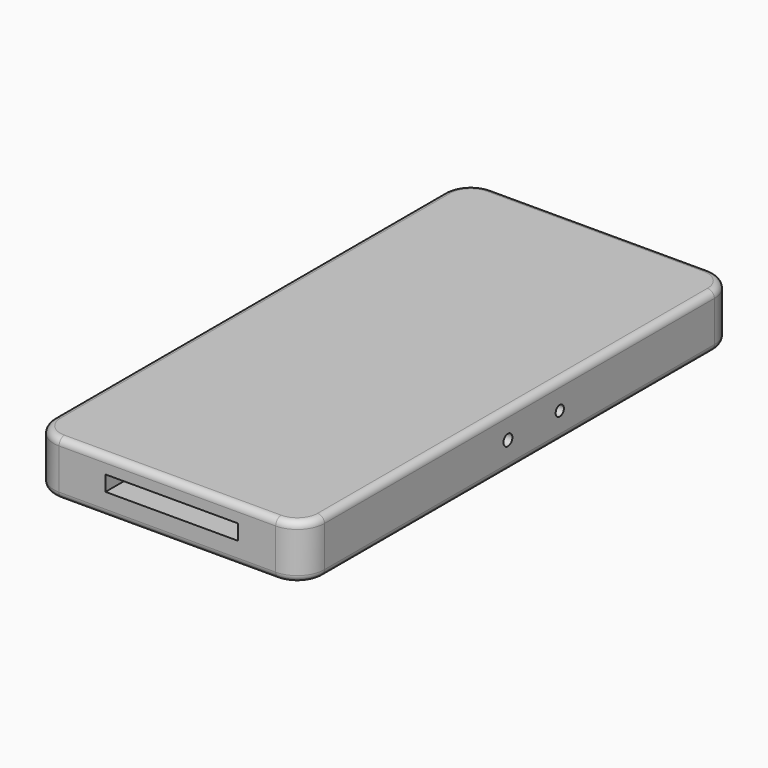
from build123d import *

# Parameters (mm, degrees)
F0_W     = 40
F0_H     = 80
F1_DEPTH = 8
F2_R     = 4
F3_R     = 1
F4_W     = 19.56314
F4_H     = 2.266603
F5_DEPTH = 5
F6_R     = 0.760622
F6_R_2   = 0.822373
F7_DEPTH = 5


with BuildPart() as f1:
    # F0 (on Top) → F1 (new body)
    with BuildSketch(Plane.XY):
        with Locations((-15.960967, 3.776696)):
            Rectangle(F0_W, F0_H)
    extrude(amount=F1_DEPTH)

    # F2
    f2_edges = [f1.edges().sort_by_distance(p)[0] for p in [
        (4.039033, 43.776696, 4),
        (4.039033, -36.223304, 4),
        (-35.960967, -36.223304, 4),
        (-35.960967, 43.776696, 4),
    ]]
    fillet(f2_edges, radius=F2_R)

    # F3
    f3_edges = [f1.edges().sort_by_distance(p)[0] for p in [
        (-35.960967, 3.776696, 8),
        (-35.960967, 3.776696, 0),
    ]]
    fillet(f3_edges, radius=F3_R)

    # F4 (on face) → F5 (cut)
    with BuildSketch(Plane.XZ.offset(36.223304)):
        with Locations((-15.319868, 4.395118)):
            Rectangle(F4_W, F4_H)
    extrude(amount=-F5_DEPTH, mode=Mode.SUBTRACT)

    # F6 (on face) → F7 (cut)
    with BuildSketch(Plane.YZ.offset(4.039033)):
        with Locations((11.231415, 3.99991)):
            Circle(F6_R)
        with Locations((1.659386, 4.084856)):
            Circle(F6_R_2)
    extrude(amount=-F7_DEPTH, mode=Mode.SUBTRACT)


solid = f1.part
